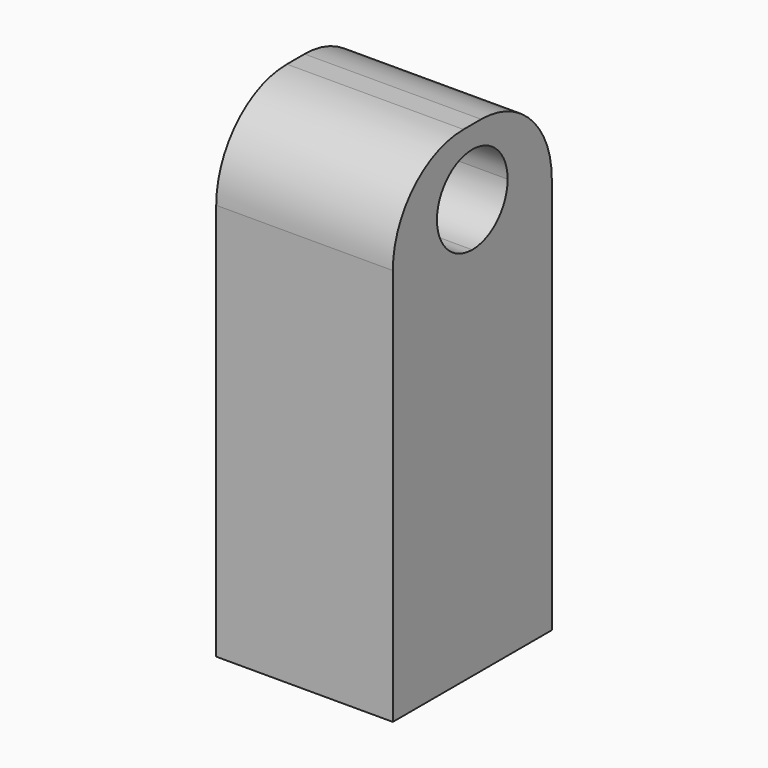
from build123d import *

# Parameters (mm, degrees)
F1_DEPTH = 20
F2_R     = 20


with BuildPart() as f1:
    # F0 (on Right) → F1 (new body, symmetric)
    with BuildSketch(Plane.YZ):
        with BuildLine():
            Line((-22.5, 0), (0, 0))
            Line((0, 0), (0, 85))
            ThreePointArc((0, 85), (-10, 95), (0, 105))
            Line((0, 105), (0, 110))
            Line((0, 110), (-22.5, 110))
            Line((-22.5, 110), (-22.5, 0))
        make_face()
        with BuildLine():
            Line((0, 0), (22.5, 0))
            Line((22.5, 0), (22.5, 110))
            Line((22.5, 110), (0, 110))
            Line((0, 110), (0, 105))
            ThreePointArc((0, 105), (7.0710678119, 102.0710678119), (10, 95))
            ThreePointArc((10, 95), (7.0710678119, 87.9289321881), (0, 85))
            Line((0, 85), (0, 0))
        make_face()
    extrude(amount=F1_DEPTH, both=True)

    # F2
    f2_edges = [f1.edges().sort_by_distance(p)[0] for p in [
        (0, -22.5, 110),
        (0, 22.5, 110),
    ]]
    fillet(f2_edges, radius=F2_R)

    # F3 (on Right) → F4 (revolve, cut)
    with BuildSketch(Plane.YZ):
        with BuildLine():
            Line((0, 20), (0, 0))
            Line((0, 0), (0, -5))
            Line((0, -5), (10, -5))
            Line((10, -5), (10, 0))
            Line((10, 0), (10, 10))
            ThreePointArc((10, 10), (7.0710678119, 17.0710678119), (0, 20))
        make_face()
    revolve(axis=Axis((0, 0, 10), (0, 0, 1)), mode=Mode.SUBTRACT)


solid = f1.part
